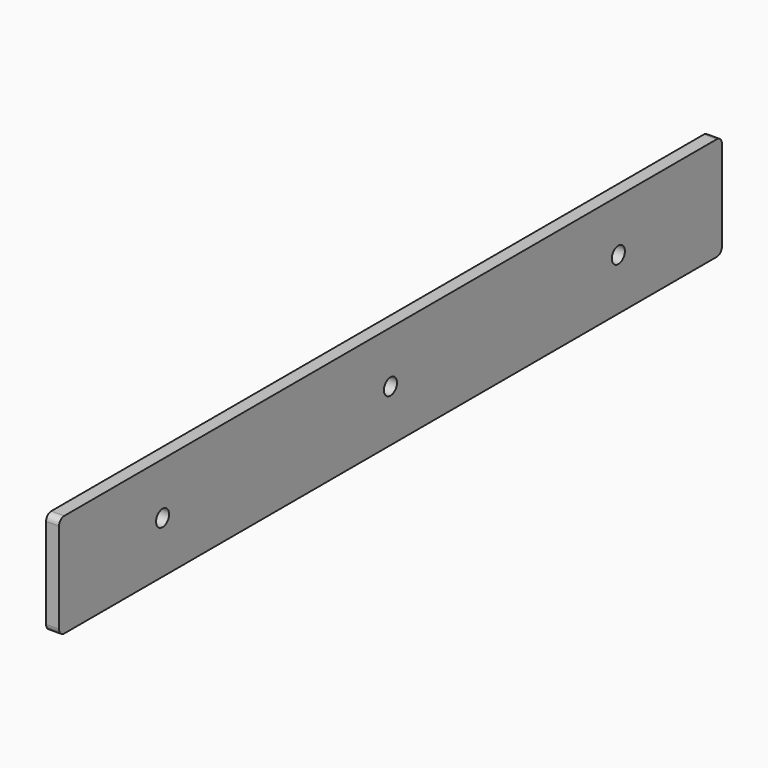
from build123d import *

# Parameters (mm, degrees)
F0_R     = 4
F1_DEPTH = 6.35


with BuildPart() as f1:
    # F0 (on Right) → F1 (new body)
    with BuildSketch(Plane.YZ):
        with BuildLine():
            ThreePointArc((203.2, 22.225), (202.270064, 24.470064), (200.025, 25.4))
            Line((200.025, 25.4), (-200.025, 25.4))
            ThreePointArc((-200.025, 25.4), (-202.270064, 24.470064), (-203.2, 22.225))
            Line((-203.2, 22.225), (-203.2, -22.225))
            ThreePointArc((-203.2, -22.225), (-202.270064, -24.470064), (-200.025, -25.4))
            Line((-200.025, -25.4), (200.025, -25.4))
            ThreePointArc((200.025, -25.4), (202.270064, -24.470064), (203.2, -22.225))
            Line((203.2, -22.225), (203.2, 22.225))
        make_face()
        with Locations((-139.7, 0)):
            Circle(F0_R, mode=Mode.SUBTRACT)
        Circle(F0_R, mode=Mode.SUBTRACT)
        with Locations((139.7, 0)):
            Circle(F0_R, mode=Mode.SUBTRACT)
    extrude(amount=F1_DEPTH)


solid = f1.part
